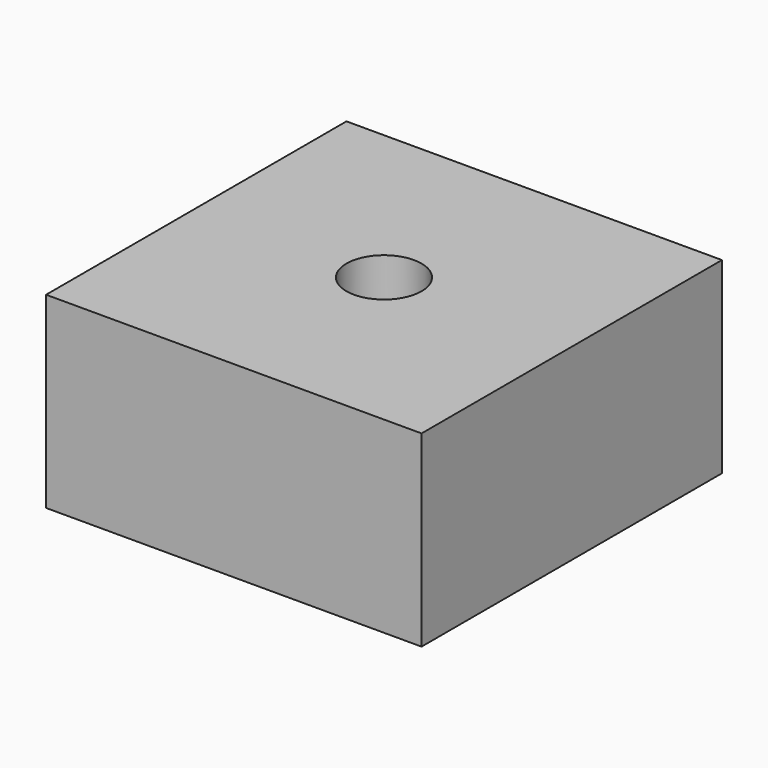
from build123d import *

# Parameters (mm, degrees)
SKETCH_W     = 200
SKETCH_H     = 200
PAD_DEPTH    = 100
SKETCH001_R  = 20
POCKET_DEPTH = 50


with BuildPart() as part:
    # Sketch → Pad (new body)
    with BuildSketch(Plane.XY):
        Rectangle(SKETCH_W, SKETCH_H)
    extrude(amount=PAD_DEPTH)

    # Sketch001 → Pocket (cut)
    with BuildSketch(Plane.XY.offset(100)):
        Circle(SKETCH001_R)
    extrude(amount=-POCKET_DEPTH, mode=Mode.SUBTRACT)


solid = part.part
